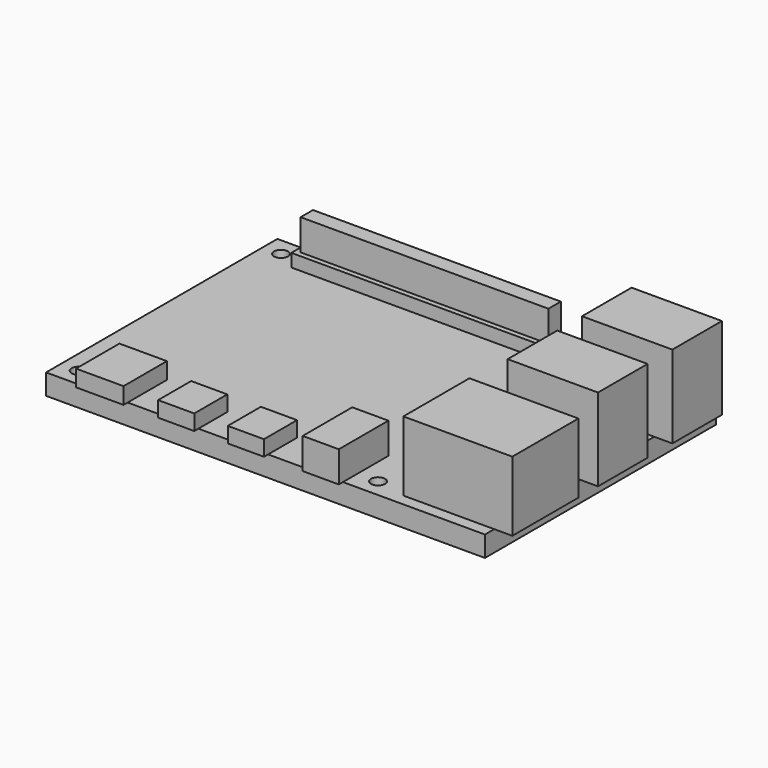
from build123d import *

# Parameters (mm, degrees)
SKETCH_W      = 85
SKETCH_H      = 56
SKETCH_R      = 1.35
PAD_DEPTH     = 4
SKETCH001_W   = 50
SKETCH001_H   = 5
PAD001_DEPTH  = 8.5
SKETCH002_W   = 50
SKETCH002_H   = 5
SKETCH002_W_2 = 48
SKETCH002_H_2 = 3
POCKET_DEPTH  = 6
SKETCH003_W   = 17.5
SKETCH003_H   = 12
PAD002_DEPTH  = 16
SKETCH004_W   = 21.1
SKETCH004_H   = 16
PAD003_DEPTH  = 13.5
SKETCH005_W   = 9.2
SKETCH005_H   = 10.5
PAD004_DEPTH  = 3.2
SKETCH006_W   = 7
SKETCH006_H   = 8
PAD005_DEPTH  = 3
SKETCH007_W   = 7
SKETCH007_H   = 12
PAD006_DEPTH  = 6


with BuildPart() as part:
    # Sketch → Pad (new body)
    with BuildSketch(Plane.XY):
        Rectangle(SKETCH_W, SKETCH_H)
        with Locations((-39, 24.5)):
            Circle(SKETCH_R, mode=Mode.SUBTRACT)
        with Locations((19, 24.5)):
            Circle(SKETCH_R, mode=Mode.SUBTRACT)
        with Locations((-39, -24.5)):
            Circle(SKETCH_R, mode=Mode.SUBTRACT)
        with Locations((19, -24.5)):
            Circle(SKETCH_R, mode=Mode.SUBTRACT)
    extrude(amount=-PAD_DEPTH)

    # Sketch001 (on Face9 of Pad) → Pad001 (join)
    with BuildSketch(Plane.XY):
        with Locations((-10, 24.5)):
            Rectangle(SKETCH001_W, SKETCH001_H)
    extrude(amount=PAD001_DEPTH)

    # Sketch002 (on Face15 of Pad001) → Pocket (cut)
    with BuildSketch(Plane.XY.offset(8.5)):
        with Locations((-10, 24.5)):
            Rectangle(SKETCH002_W, SKETCH002_H)
        with Locations((-10, 24.5)):
            Rectangle(SKETCH002_W_2, SKETCH002_H_2, mode=Mode.SUBTRACT)
    extrude(amount=-POCKET_DEPTH, mode=Mode.SUBTRACT)

    # Sketch003 (on Face4 of Pocket) → Pad002 (join)
    with BuildSketch(Plane.XY):
        with Locations((37.25, 19)):
            Rectangle(SKETCH003_W, SKETCH003_H)
        with Locations((37.25, 1)):
            Rectangle(SKETCH003_W, SKETCH003_H)
    extrude(amount=PAD002_DEPTH)

    # Sketch004 (on Face4 of Pad002) → Pad003 (join)
    with BuildSketch(Plane.XY):
        with Locations((35.45, -17.75)):
            Rectangle(SKETCH004_W, SKETCH004_H)
    extrude(amount=PAD003_DEPTH)

    # Sketch005 (on Face4 of Pad003) → Pad004 (join)
    with BuildSketch(Plane.XY):
        with Locations((-31.3, -23.75)):
            Rectangle(SKETCH005_W, SKETCH005_H)
    extrude(amount=PAD004_DEPTH)

    # Sketch006 (on Face4 of Pad004) → Pad005 (join)
    with BuildSketch(Plane.XY):
        with Locations((-16.5, -25)):
            Rectangle(SKETCH006_W, SKETCH006_H)
        with Locations((-3, -25)):
            Rectangle(SKETCH006_W, SKETCH006_H)
    extrude(amount=PAD005_DEPTH)

    # Sketch007 (on Face4 of Pad005) → Pad006 (join)
    with BuildSketch(Plane.XY):
        with Locations((11.5, -23)):
            Rectangle(SKETCH007_W, SKETCH007_H)
    extrude(amount=PAD006_DEPTH)


solid = part.part
